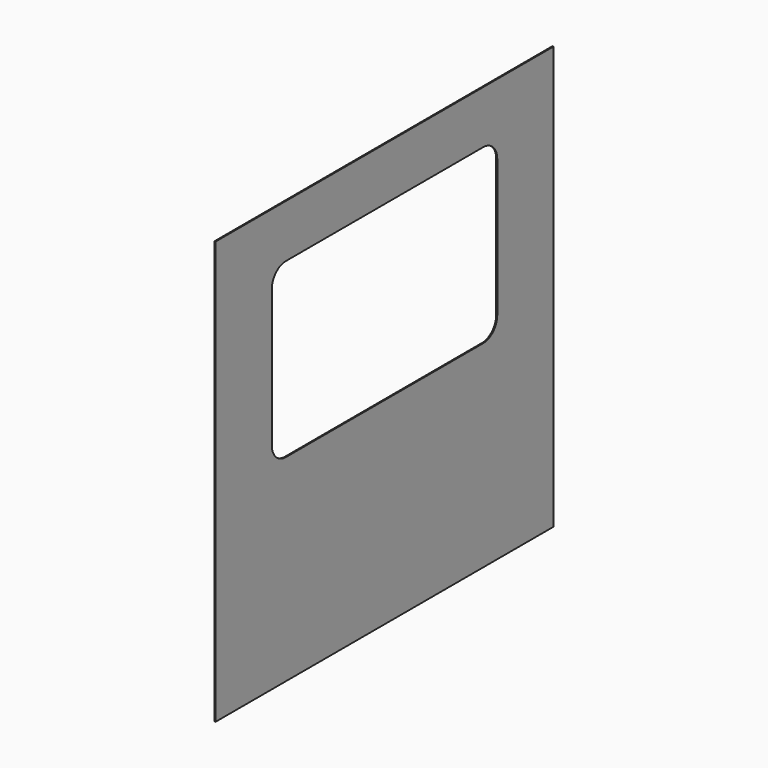
from build123d import *

# Parameters (mm, degrees)
F0_W     = 1200
F0_H     = 1200
F1_DEPTH = 3


with BuildPart() as f1:
    # F0 (on Right) → F1 (new body)
    with BuildSketch(Plane.YZ):
        with Locations((-365.502932, 10.141731)):
            Rectangle(F0_W, F0_H)
        with BuildLine():
            ThreePointArc((-765.502932, 410.141731), (-750.858271, 445.49707), (-715.502932, 460.141731))
            Line((-715.502932, 460.141731), (-15.502932, 460.141731))
            ThreePointArc((-15.502932, 460.141731), (19.852408, 445.49707), (34.497068, 410.141731))
            Line((34.497068, 410.141731), (34.497068, 20.141731))
            ThreePointArc((34.497068, 20.141731), (19.852408, -15.213608), (-15.502932, -29.858269))
            Line((-15.502932, -29.858269), (-715.502932, -29.858269))
            ThreePointArc((-715.502932, -29.858269), (-750.858271, -15.213608), (-765.502932, 20.141731))
            Line((-765.502932, 20.141731), (-765.502932, 410.141731))
        make_face(mode=Mode.SUBTRACT)
    extrude(amount=-F1_DEPTH)


solid = f1.part
